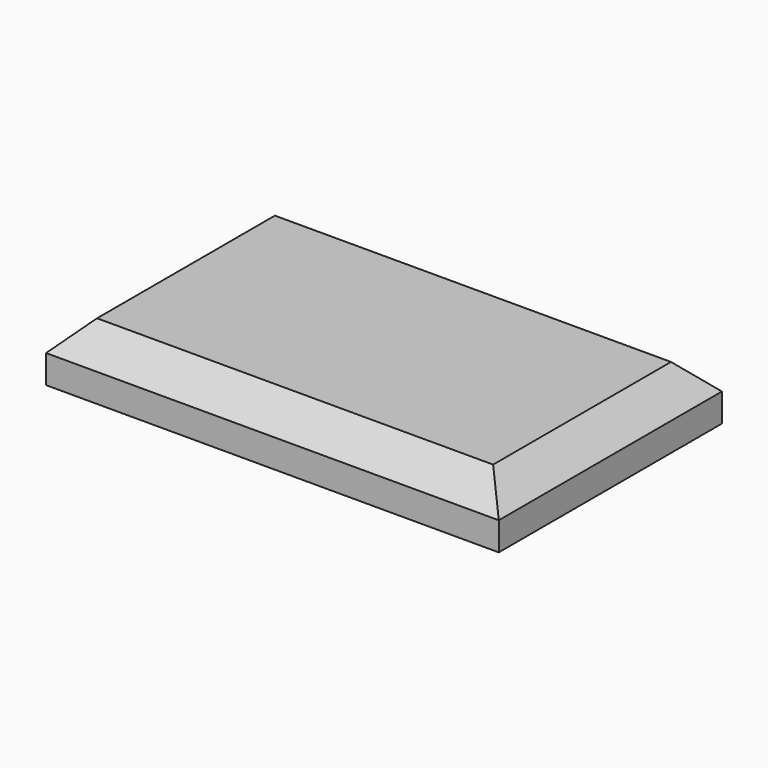
from build123d import *

# Parameters (mm, degrees)
F0_W     = 200
F0_H     = 123.223924
F1_DEPTH = 25
F2_SIZE  = 12.5


with BuildPart() as f1:
    # F0 (on Top) → F1 (new body)
    with BuildSketch(Plane.XY):
        Rectangle(F0_W, F0_H)
    extrude(amount=F1_DEPTH)

    # F2
    f2_edges = [f1.edges().sort_by_distance(p)[0] for p in [
        (0, -61.611962, 25),
        (-100, 0, 25),
        (0, 61.611962, 25),
        (100, 0, 25),
    ]]
    chamfer(f2_edges, length=F2_SIZE)


solid = f1.part
